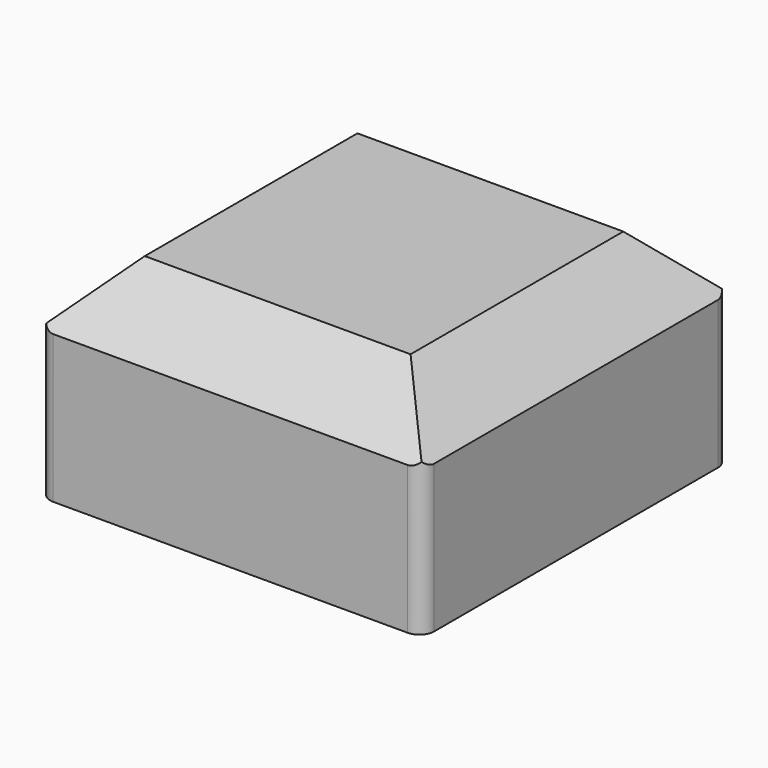
from build123d import *

# Parameters (mm, degrees)
SKETCH_W     = 13
SKETCH_H     = 13
PAD_DEPTH    = 7
CHAMFER_SIZE = 2
POCKET_DEPTH = 7


with BuildPart() as part:
    # Sketch → Pad (new body)
    with BuildSketch(Plane.XY):
        with Locations((6.5, 6.5)):
            Rectangle(SKETCH_W, SKETCH_H)
    extrude(amount=PAD_DEPTH)

    # Chamfer
    chamfer_edges = [part.edges().sort_by_distance(p)[0] for p in [
        (0, 6.5, 7),
        (6.5, 13, 7),
        (6.5, 0, 7),
        (13, 6.5, 7),
    ]]
    chamfer(chamfer_edges, length=CHAMFER_SIZE)

    # Sketch002 (on Face4 of Chamfer) → Pocket (cut)
    with BuildSketch(Plane(origin=(0, 0, 0), x_dir=(1, 0, 0), z_dir=(0, 0, -1))):
        with BuildLine():
            Line((0, 0), (0, -0.5))
            ThreePointArc((0.5, 0), (0.146447, -0.146447), (0, -0.5))
            Line((0, 0), (0.5, 0))
        make_face()
        with BuildLine():
            Line((13, 0), (12.5, 0))
            ThreePointArc((13, -0.5), (12.853553, -0.146447), (12.5, 0))
            Line((13, 0), (13, -0.5))
        make_face()
        with BuildLine():
            Line((0, -12.5), (0, -13))
            Line((0, -13), (0.5, -13))
            ThreePointArc((0, -12.5), (0.146447, -12.853553), (0.5, -13))
        make_face()
        with BuildLine():
            Line((13, -12.5), (13, -13))
            Line((13, -13), (12.5, -13))
            ThreePointArc((12.5, -13), (12.853553, -12.853553), (13, -12.5))
        make_face()
    extrude(amount=-POCKET_DEPTH, mode=Mode.SUBTRACT)


solid = part.part
